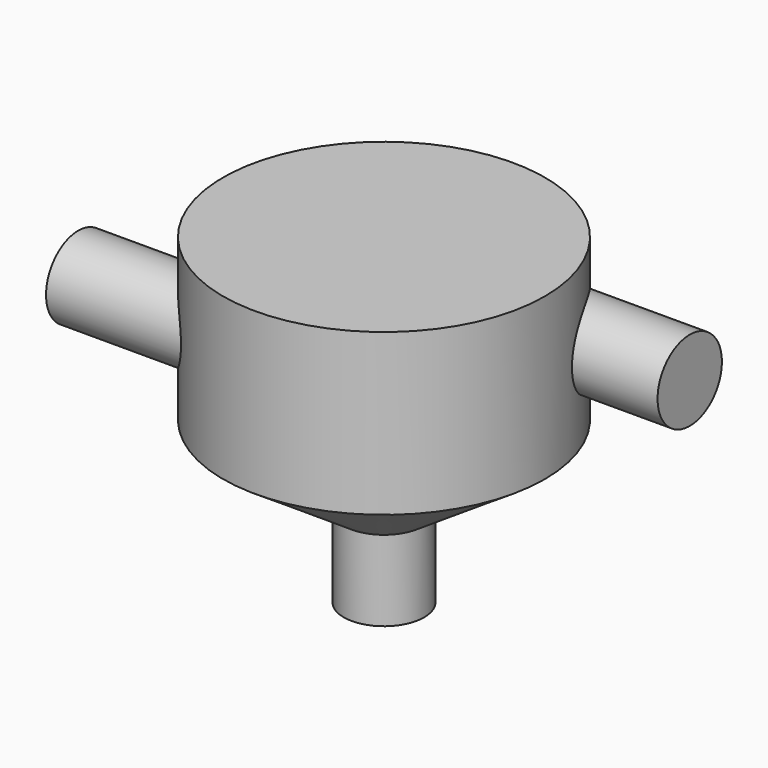
from build123d import *

# Parameters (mm, degrees)
F3_R = 500
F6_R = 500


with BuildPart() as f1:
    # F0 (on Front) → F1 (revolve)
    with BuildSketch(Plane.XZ):
        Polygon((0, 4000), (0, 0), (500, 0), (500, 1000), (2000, 2000), (2000, 4000), align=None)
    revolve(axis=Axis((0, 0, 2000), (0, 0, -1)))

    # F3 (on offset) → F4 (join, up to the next surface of F1)
    with BuildSketch(Plane.YZ.offset(3000)):
        with Locations((1000, 3000)):
            Circle(F3_R)
    extrude(until=Until.NEXT, dir=(-1, 0, 0))

    # F6 (on offset) → F7 (join, up to the next surface of F1)
    with BuildSketch(Plane.YZ.offset(-3000)):
        with Locations((-1000, 3000)):
            Circle(F6_R)
    extrude(until=Until.NEXT)


solid = f1.part
